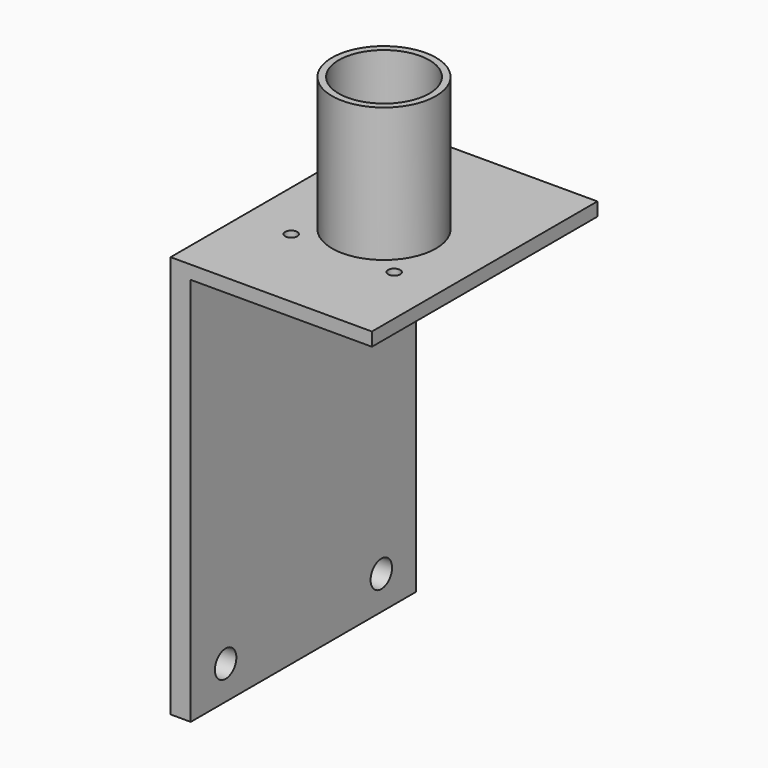
from build123d import *

# Parameters (mm, degrees)
F0_W      = 3
F0_H      = 60
F1_DEPTH  = 42
F2_W      = 30
F2_H      = 2
F3_DEPTH  = 42
F4_R      = 7.5
F4_W      = 30
F4_H      = 42
F5_DEPTH  = 2
F6_R      = 7.75
F6_R_2    = 6.75
F7_DEPTH  = 20
F9_R      = 2
F10_DEPTH = 25
F11_DEPTH = 25
F8_R      = 0.9
F12_DEPTH = 25


with BuildPart() as f1:
    # F0 (on Front) → F1 (new body)
    with BuildSketch(Plane.XZ):
        with Locations((-63.065696, -26.523725)):
            Rectangle(F0_W, F0_H)
    extrude(amount=F1_DEPTH)

    # F2 (on Front) → F3 (join)
    with BuildSketch(Plane.XZ):
        with Locations((-49.565696, 2.476275)):
            Rectangle(F2_W, F2_H)
    extrude(amount=F3_DEPTH)

    # F4 (on face) → F5 (join)
    with BuildSketch(Plane.XY.offset(3.476275)):
        with Locations((-43.565696, -21)):
            Circle(F4_R)
        with Locations((-49.565696, -21)):
            Rectangle(F4_W, F4_H)
        with Locations((-43.565696, -21)):
            Circle(F4_R, mode=Mode.SUBTRACT)
    extrude(amount=-F5_DEPTH)

    # F6 (on face) → F7 (join)
    with BuildSketch(Plane.XY.offset(3.476275)):
        with Locations((-49.565696, -21)):
            Circle(F6_R)
        with Locations((-49.565696, -21)):
            Circle(F6_R_2, mode=Mode.SUBTRACT)
    extrude(amount=F7_DEPTH)

    # F9 (on face) → F10 (cut)
    with BuildSketch(Plane(origin=(-64.565696, 0, 0), x_dir=(0, -1, 0), z_dir=(-1, 0, 0))):
        with Locations((35.5, -51.523725)):
            Circle(F9_R)
        with Locations((6.5, -51.523725)):
            Circle(F9_R)
    extrude(amount=-F10_DEPTH, mode=Mode.SUBTRACT)

    # F6 (on face) → F11 (cut)
    with BuildSketch(Plane.XY.offset(3.476275)):
        with Locations((-49.565696, -21)):
            Circle(F6_R_2)
    extrude(amount=-F11_DEPTH, mode=Mode.SUBTRACT)

    # F8 (on face) → F12 (cut)
    with BuildSketch(Plane.XY.offset(3.476275)):
        with Locations((-57.235696, -28.698958)):
            Circle(F8_R)
        with Locations((-41.895696, -28.698951)):
            Circle(F8_R)
    extrude(amount=-F12_DEPTH, mode=Mode.SUBTRACT)


solid = f1.part
